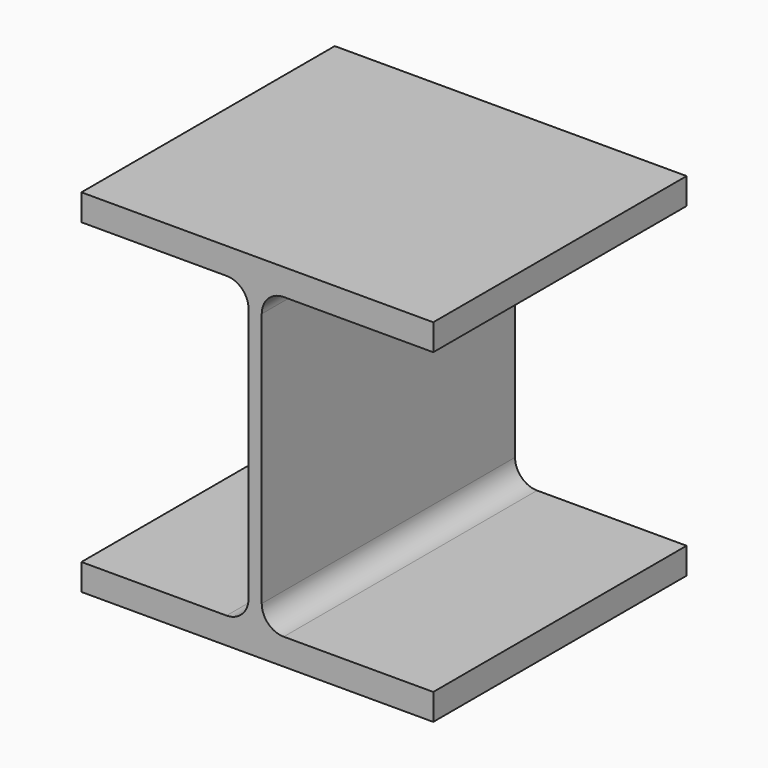
from build123d import *

# Parameters (mm, degrees)
F1_DEPTH = 114.3


with BuildPart() as f1:
    # F0 (on Front) → F1 (new body)
    with BuildSketch(Plane.XZ):
        with BuildLine():
            Line((78.341342, 53.066146), (-48.658658, 53.066146))
            Line((-48.658658, 53.066146), (-48.658658, 43.541146))
            Line((-48.658658, 43.541146), (3.728842, 43.541146))
            ThreePointArc((3.728842, 43.541146), (9.341502, 41.216306), (11.666342, 35.603646))
            Line((11.666342, 35.603646), (11.666342, -56.471354))
            ThreePointArc((11.666342, -56.471354), (9.341502, -62.084014), (3.728842, -64.408854))
            Line((3.728842, -64.408854), (-48.658658, -64.408854))
            Line((-48.658658, -64.408854), (-48.658658, -73.933854))
            Line((-48.658658, -73.933854), (78.341342, -73.933854))
            Line((78.341342, -73.933854), (78.341342, -64.408854))
            Line((78.341342, -64.408854), (24.366342, -64.408854))
            ThreePointArc((24.366342, -64.408854), (18.753682, -62.084014), (16.428842, -56.471354))
            Line((16.428842, -56.471354), (16.428842, 35.603646))
            ThreePointArc((16.428842, 35.603646), (18.753682, 41.216306), (24.366342, 43.541146))
            Line((24.366342, 43.541146), (78.341342, 43.541146))
            Line((78.341342, 43.541146), (78.341342, 53.066146))
        make_face()
    extrude(amount=F1_DEPTH)


solid = f1.part
